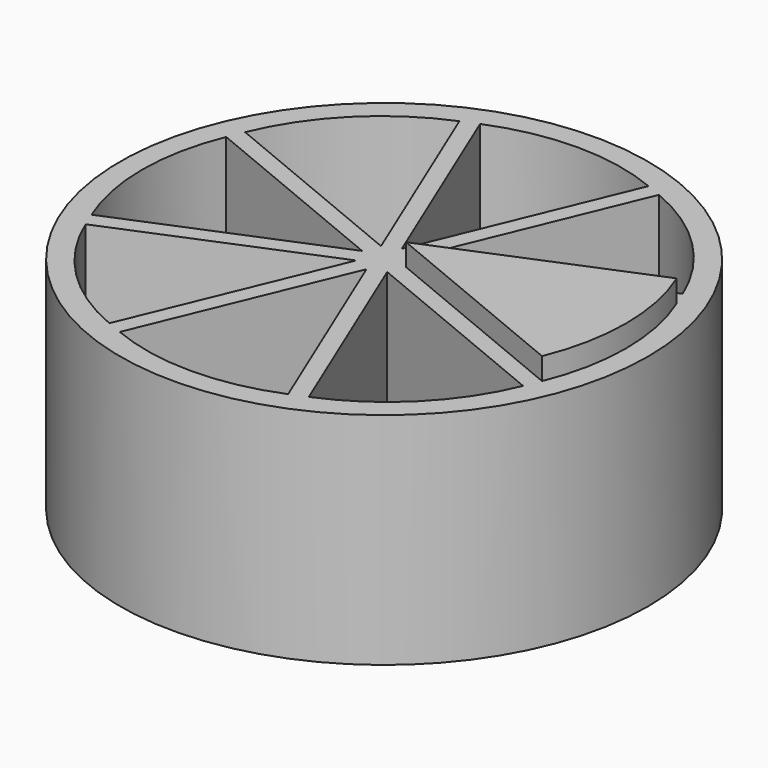
from build123d import *

# Parameters (mm, degrees)
CYLINDER002_W               = 10
CYLINDER002_H               = 10
CYLINDER002_ANGLE           = 45
CYLINDER002_PLACEMENT_ANGLE = 22.5
CYLINDER001_W               = 10
CYLINDER001_H               = 10
CYLINDER001_ANGLE           = 45
CYLINDER001_PLACEMENT_ANGLE = 337.5
ARRAY_COUNT                 = 8
CYLINDER_R                  = 12
CYLINDER_DEPTH              = 10


with BuildPart() as obj1:
    # Cylinder002 → Cylinder002 (revolve)
    with BuildSketch(Plane.XZ):
        with Locations((5, 5)):
            Rectangle(CYLINDER002_W, CYLINDER002_H)
    revolve(axis=Axis((0, 0, 0), (0, 0, 1)), revolution_arc=CYLINDER002_ANGLE)


with BuildPart() as obj1_1:
    # Cylinder002 placement: moved
    add(obj1.part.moved(Location((1, 0, 1))).rotate(Axis((1, 0, 1), (0, 0, -1)), CYLINDER002_PLACEMENT_ANGLE))


with BuildPart() as obj2:
    # Cylinder001 → Cylinder001 (revolve)
    with BuildSketch(Plane.XZ):
        with Locations((5, 5)):
            Rectangle(CYLINDER001_W, CYLINDER001_H)
    revolve(axis=Axis((0, 0, 0), (0, 0, 1)), revolution_arc=CYLINDER001_ANGLE)


with BuildPart() as obj2_1:
    # Cylinder001 placement: moved
    add(obj2.part.moved(Location((1, 0, 1))).rotate(Axis((1, 0, 1), (0, 0, 1)), CYLINDER001_PLACEMENT_ANGLE))

    # Array: obj2 ×8 about axis
    array_axis = Axis((0, 0, 0), (0, 0, 1))


with BuildPart() as obj2_2:
    add(obj2_1.part)
    for i in range(1, ARRAY_COUNT):
        add(obj2_1.part.rotate(array_axis, i * 360 / ARRAY_COUNT))


with BuildPart() as obj3:
    # Cylinder → Cylinder (new body)
    with BuildSketch(Plane.XY):
        Circle(CYLINDER_R)
    extrude(amount=CYLINDER_DEPTH)

    # Cut: cut obj2
    add(obj2_2.part, mode=Mode.SUBTRACT)


solid = Compound([obj1_1.part, obj3.part])
